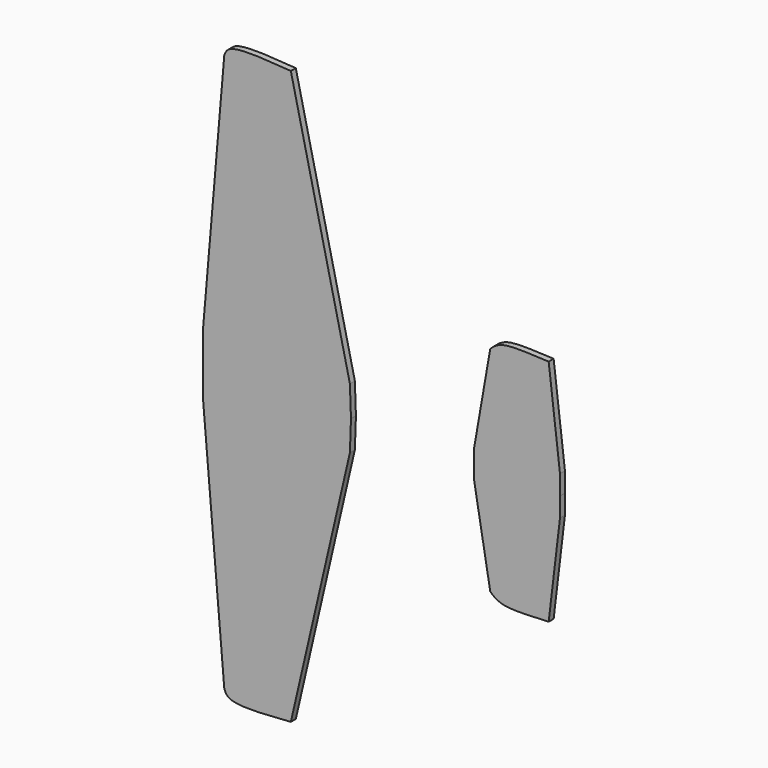
from build123d import *

# Parameters (mm, degrees)
F1_DEPTH = 1.4732
F2_DEPTH = 1.4732


with BuildPart() as f1:
    # F0 (on Front) → F1 (new body)
    with BuildSketch(Plane.XZ):
        with BuildLine():
            Line((-46.0291467607, 6.9798850454), (-46.0291467607, 0))
            Line((-46.0291467607, 0), (-46.0291467607, -6.9798850454))
            Line((-46.0291467607, -6.9798850454), (-40.9467443824, -66.2495791912))
            add(Edge.make_bspline(
                [(-40.9467443824, -66.2495791912), (-40.6883318068, -66.8803661985), (-39.7606656869, -69.1448060552), (-31.2709880581, -68.5055704966), (-25.1462124288, -68.0444017053)],
                knots=[0, 0, 0, 0, 0.2785620495, 1, 1, 1, 1], degree=3))
            Line((-25.1462124288, -68.0444017053), (-11.1219026148, -7.2120078839))
            Line((-11.1219026148, -7.2120078839), (-10.8663532883, 0))
            Line((-10.8663532883, 0), (-11.1219026148, 7.2120078839))
            Line((-11.1219026148, 7.2120078839), (-25.1462124288, 68.0444017053))
            add(Edge.make_bspline(
                [(-40.9467443824, 66.2495791912), (-40.6883318068, 66.8803661985), (-39.7606656869, 69.1448060552), (-31.2709880581, 68.5055704966), (-25.1462124288, 68.0444017053)],
                knots=[0, 0, 0, 0, 0.2785620495, 1, 1, 1, 1], degree=3))
            Line((-40.9467443824, 66.2495791912), (-46.0291467607, 6.9798850454))
        make_face()
    extrude(amount=F1_DEPTH)


with BuildPart() as f1b:
    # F0 (on Front) → F1, piece 2 (new body)
    with BuildSketch(Plane.XZ):
        with BuildLine():
            Line((18.3902941644, 3.454687075), (18.3902941644, 0))
            Line((18.3902941644, 0), (18.3902941644, -3.454687075))
            Line((18.3902941644, -3.454687075), (22.2026370466, -25.3443550318))
            add(Edge.make_bspline(
                [(22.2026370466, -25.3443550318), (22.8817845256, -26.070078438), (25.3457400214, -27.9325335411), (31.5443602575, -27.338116992), (36.0823087394, -27.1957162768)],
                knots=[0, 0, 0, 0, 0.3577750446, 1, 1, 1, 1], degree=3))
            Line((36.0823087394, -27.1957162768), (38.7684330344, -4.6322611161))
            Line((38.7684330344, -4.6322611161), (38.8048477471, 0))
            Line((38.8048477471, 0), (38.7684330344, 4.6322611161))
            Line((38.7684330344, 4.6322611161), (36.0823087394, 27.1957162768))
            add(Edge.make_bspline(
                [(22.2026370466, 25.3443550318), (22.8817845256, 26.070078438), (25.3457400214, 27.9325335411), (31.5443602575, 27.338116992), (36.0823087394, 27.1957162768)],
                knots=[0, 0, 0, 0, 0.3577750446, 1, 1, 1, 1], degree=3))
            Line((22.2026370466, 25.3443550318), (18.3902941644, 3.454687075))
        make_face()
    extrude(amount=F1_DEPTH)


with BuildPart() as f2:
    # F0 (on Front) → F2 (new body)
    with BuildSketch(Plane.XZ):
        with BuildLine():
            Line((-46.0291467607, 6.9798850454), (-46.0291467607, 0))
            Line((-46.0291467607, 0), (-46.0291467607, -6.9798850454))
            Line((-46.0291467607, -6.9798850454), (-40.9467443824, -66.2495791912))
            add(Edge.make_bspline(
                [(-40.9467443824, -66.2495791912), (-40.6883318068, -66.8803661985), (-39.7606656869, -69.1448060552), (-31.2709880581, -68.5055704966), (-25.1462124288, -68.0444017053)],
                knots=[0, 0, 0, 0, 0.2785620495, 1, 1, 1, 1], degree=3))
            Line((-25.1462124288, -68.0444017053), (-11.1219026148, -7.2120078839))
            Line((-11.1219026148, -7.2120078839), (-10.8663532883, 0))
            Line((-10.8663532883, 0), (-11.1219026148, 7.2120078839))
            Line((-11.1219026148, 7.2120078839), (-25.1462124288, 68.0444017053))
            add(Edge.make_bspline(
                [(-40.9467443824, 66.2495791912), (-40.6883318068, 66.8803661985), (-39.7606656869, 69.1448060552), (-31.2709880581, 68.5055704966), (-25.1462124288, 68.0444017053)],
                knots=[0, 0, 0, 0, 0.2785620495, 1, 1, 1, 1], degree=3))
            Line((-40.9467443824, 66.2495791912), (-46.0291467607, 6.9798850454))
        make_face()
    extrude(amount=F2_DEPTH)


with BuildPart() as f2b:
    # F0 (on Front) → F2, piece 2 (new body)
    with BuildSketch(Plane.XZ):
        with BuildLine():
            Line((18.3902941644, 3.454687075), (18.3902941644, 0))
            Line((18.3902941644, 0), (18.3902941644, -3.454687075))
            Line((18.3902941644, -3.454687075), (22.2026370466, -25.3443550318))
            add(Edge.make_bspline(
                [(22.2026370466, -25.3443550318), (22.8817845256, -26.070078438), (25.3457400214, -27.9325335411), (31.5443602575, -27.338116992), (36.0823087394, -27.1957162768)],
                knots=[0, 0, 0, 0, 0.3577750446, 1, 1, 1, 1], degree=3))
            Line((36.0823087394, -27.1957162768), (38.7684330344, -4.6322611161))
            Line((38.7684330344, -4.6322611161), (38.8048477471, 0))
            Line((38.8048477471, 0), (38.7684330344, 4.6322611161))
            Line((38.7684330344, 4.6322611161), (36.0823087394, 27.1957162768))
            add(Edge.make_bspline(
                [(22.2026370466, 25.3443550318), (22.8817845256, 26.070078438), (25.3457400214, 27.9325335411), (31.5443602575, 27.338116992), (36.0823087394, 27.1957162768)],
                knots=[0, 0, 0, 0, 0.3577750446, 1, 1, 1, 1], degree=3))
            Line((22.2026370466, 25.3443550318), (18.3902941644, 3.454687075))
        make_face()
    extrude(amount=F2_DEPTH)


solid = Compound([f1.part, f1b.part, f2.part, f2b.part])
